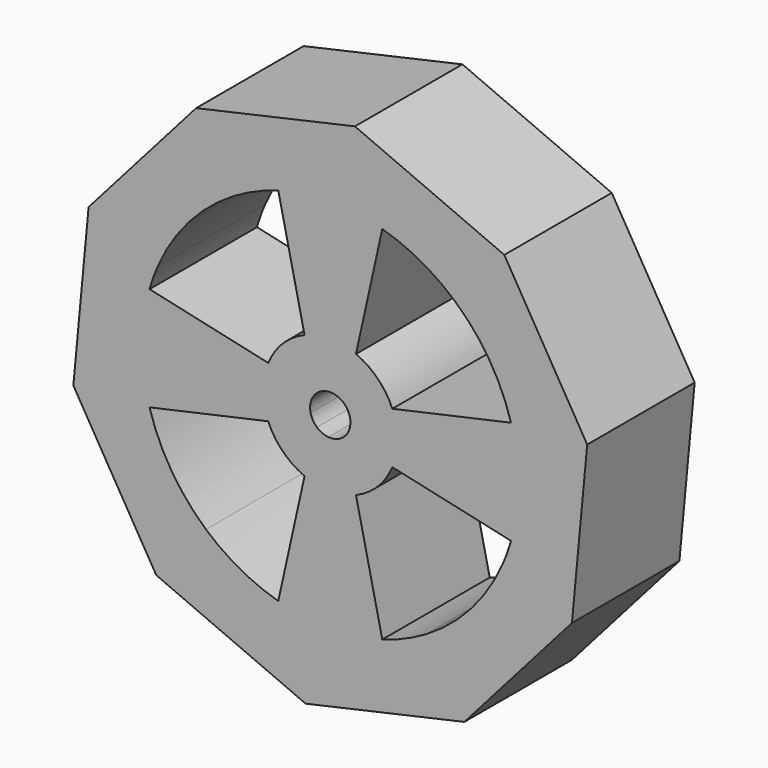
from build123d import *

# Parameters (mm, degrees)
F1_DEPTH = 25.4
F3_D     = 2.6
F3_DEPTH = 9.5
F3_TIP   = 0.7811188047


with BuildPart() as f1:
    # F0 (on Front) → F1 (new body)
    with BuildSketch(Plane.XZ):
        with BuildLine():
            ThreePointArc((4.860079591, -11.7332700629), (8.9802561211, -8.9802561211), (11.7332700629, -4.860079591))
            ThreePointArc((11.7332700629, -4.860079591), (12.4559730611, -2.4776470896), (12.7, 0))
            ThreePointArc((12.7, 0), (12.4559730611, 2.4776470896), (11.7332700629, 4.860079591))
            ThreePointArc((11.7332700629, 4.860079591), (8.9802561211, 8.9802561211), (4.860079591, 11.7332700629))
            ThreePointArc((4.860079591, 11.7332700629), (0, 12.7), (-4.860079591, 11.7332700629))
            ThreePointArc((-4.860079591, 11.7332700629), (-8.9802561211, 8.9802561211), (-11.7332700629, 4.860079591))
            ThreePointArc((-11.7332700629, 4.860079591), (-12.7, 0), (-11.7332700629, -4.860079591))
            ThreePointArc((-11.7332700629, -4.860079591), (-8.9802561211, -8.9802561211), (-4.860079591, -11.7332700629))
            ThreePointArc((-4.860079591, -11.7332700629), (0, -12.7), (4.860079591, -11.7332700629))
        make_face()
        with BuildLine():
            ThreePointArc((3.7179078086, 0.83262328), (3.7869069668, 0.4188503605), (3.81, 0))
            ThreePointArc((3.81, 0), (3.7309944269, -0.7718682441), (3.4972542854, -1.5117249959))
            ThreePointArc((3.4972542854, -1.5117249959), (2.8589377627, -2.518446916), (1.9407684924, -3.278645705))
            ThreePointArc((1.9407684924, -3.278645705), (0.83262328, -3.7179078086), (-0.3570249003, -3.7932351918))
            ThreePointArc((-0.3570249003, -3.7932351918), (-1.5117249959, -3.4972542854), (-2.518446916, -2.8589377627))
            ThreePointArc((-2.518446916, -2.8589377627), (-3.278645705, -1.9407684924), (-3.7179078086, -0.83262328))
            ThreePointArc((-3.7179078086, -0.83262328), (-3.7932351918, 0.3570249003), (-3.4972542854, 1.5117249959))
            ThreePointArc((-3.4972542854, 1.5117249959), (-2.8589377627, 2.518446916), (-1.9407684924, 3.278645705))
            ThreePointArc((-1.9407684924, 3.278645705), (-0.83262328, 3.7179078086), (0.3570249003, 3.7932351918))
            ThreePointArc((0.3570249003, 3.7932351918), (1.5117249959, 3.4972542854), (2.518446916, 2.8589377627))
            ThreePointArc((2.518446916, 2.8589377627), (3.278645705, 1.9407684924), (3.7179078086, 0.83262328))
        make_face(mode=Mode.SUBTRACT)
        with BuildLine():
            Line((4.860079591, 11.7332700629), (9.8348340353, 34.1729372384))
            ThreePointArc((9.8348340353, 34.1729372384), (6.6122234033, 34.9398354556), (3.3322324031, 35.4035284571))
            ThreePointArc((3.3322324031, 35.4035284571), (-3.3090097739, 35.4057065219), (-9.8348340353, 34.1729372384))
            Line((-9.8348340353, 34.1729372384), (-4.860079591, 11.7332700629))
            ThreePointArc((-4.860079591, 11.7332700629), (0, 12.7), (4.860079591, 11.7332700629))
        make_face()
        with BuildLine():
            ThreePointArc((34.1729372384, -9.8348340353), (35.2115268641, -4.9660825508), (35.56, 0))
            ThreePointArc((35.56, 0), (35.3444650238, 3.9092700317), (34.7004728807, 7.7711506133))
            ThreePointArc((34.7004728807, 7.7711506133), (34.4521603484, 8.8069431317), (34.1729372384, 9.8348340353))
            Line((34.1729372384, 9.8348340353), (11.7332700629, 4.860079591))
            ThreePointArc((11.7332700629, 4.860079591), (12.4559730611, 2.4776470896), (12.7, 0))
            ThreePointArc((12.7, 0), (12.4559730611, -2.4776470896), (11.7332700629, -4.860079591))
            Line((11.7332700629, -4.860079591), (34.1729372384, -9.8348340353))
        make_face()
        with BuildLine():
            Line((9.8348340353, -34.1729372384), (4.860079591, -11.7332700629))
            ThreePointArc((4.860079591, -11.7332700629), (0, -12.7), (-4.860079591, -11.7332700629))
            Line((-4.860079591, -11.7332700629), (-9.8348340353, -34.1729372384))
            ThreePointArc((-9.8348340353, -34.1729372384), (-6.6122234033, -34.9398354556), (-3.3322324031, -35.4035284571))
            ThreePointArc((-3.3322324031, -35.4035284571), (3.3090097739, -35.4057065219), (9.8348340353, -34.1729372384))
        make_face()
        with BuildLine():
            Line((-34.1729372384, -9.8348340353), (-11.7332700629, -4.860079591))
            ThreePointArc((-11.7332700629, -4.860079591), (-12.7, 0), (-11.7332700629, 4.860079591))
            Line((-11.7332700629, 4.860079591), (-34.1729372384, 9.8348340353))
            ThreePointArc((-34.1729372384, 9.8348340353), (-35.5440477326, 1.0650214928), (-34.7004728807, -7.7711506133))
            ThreePointArc((-34.7004728807, -7.7711506133), (-34.4521603484, -8.8069431317), (-34.1729372384, -9.8348340353))
        make_face()
        with BuildLine():
            Line((-32.6410399972, 14.1094332949), (-45.697455996, 19.7532066129))
            Line((-45.697455996, 19.7532066129), (-48.580662033, -10.8796108586))
            Line((-48.580662033, -10.8796108586), (-34.7004728807, -7.7711506133))
            ThreePointArc((-34.7004728807, -7.7711506133), (-35.5440477326, 1.0650214928), (-34.1729372384, 9.8348340353))
            ThreePointArc((-34.1729372384, 9.8348340353), (-33.475288471, 11.996610429), (-32.6410399972, 14.1094332949))
        make_face()
        with BuildLine():
            Line((-18.1138392628, 30.6006932464), (-25.359374968, 42.840970545))
            Line((-25.359374968, 42.840970545), (-45.697455996, 19.7532066129))
            Line((-45.697455996, 19.7532066129), (-32.6410399972, 14.1094332949))
            ThreePointArc((-32.6410399972, 14.1094332949), (-26.6834191188, 23.5055045495), (-18.1138392628, 30.6006932464))
        make_face()
        with BuildLine():
            Line((3.3322324031, 35.4035284571), (4.6651253644, 49.5649398399))
            Line((4.6651253644, 49.5649398399), (-25.359374968, 42.840970545))
            Line((-25.359374968, 42.840970545), (-18.1138392628, 30.6006932464))
            ThreePointArc((-18.1138392628, 30.6006932464), (-14.0880203211, 32.650287647), (-9.8348340353, 34.1729372384))
            ThreePointArc((-9.8348340353, 34.1729372384), (-3.3090097739, 35.4057065219), (3.3322324031, 35.4035284571))
        make_face()
        with BuildLine():
            ThreePointArc((9.8348340353, 34.1729372384), (17.0856010914, 31.1864687861), (23.5055045495, 26.6834191188))
            Line((23.5055045495, 26.6834191188), (32.9077063694, 37.3567867664))
            Line((32.9077063694, 37.3567867664), (4.6651253644, 49.5649398399))
            Line((4.6651253644, 49.5649398399), (3.3322324031, 35.4035284571))
            ThreePointArc((3.3322324031, 35.4035284571), (6.6122234033, 34.9398354556), (9.8348340353, 34.1729372384))
        make_face()
        with BuildLine():
            ThreePointArc((34.1729372384, 9.8348340353), (34.4521603484, 8.8069431317), (34.7004728807, 7.7711506133))
            Line((34.7004728807, 7.7711506133), (48.580662033, 10.8796108586))
            Line((48.580662033, 10.8796108586), (32.9077063694, 37.3567867664))
            Line((32.9077063694, 37.3567867664), (23.5055045495, 26.6834191188))
            ThreePointArc((23.5055045495, 26.6834191188), (30.0444565036, 19.0222036946), (34.1729372384, 9.8348340353))
        make_face()
        with BuildLine():
            ThreePointArc((34.7004728807, 7.7711506133), (35.3444650238, 3.9092700317), (35.56, 0))
            ThreePointArc((35.56, 0), (35.2115268641, -4.9660825508), (34.1729372384, -9.8348340353))
            ThreePointArc((34.1729372384, -9.8348340353), (33.475288471, -11.996610429), (32.6410399972, -14.1094332949))
            Line((32.6410399972, -14.1094332949), (45.697455996, -19.7532066129))
            Line((45.697455996, -19.7532066129), (48.580662033, 10.8796108586))
            Line((48.580662033, 10.8796108586), (34.7004728807, 7.7711506133))
        make_face()
        with BuildLine():
            Line((45.697455996, -19.7532066129), (32.6410399972, -14.1094332949))
            ThreePointArc((32.6410399972, -14.1094332949), (26.6834191188, -23.5055045495), (18.1138392628, -30.6006932464))
            Line((18.1138392628, -30.6006932464), (25.359374968, -42.840970545))
            Line((25.359374968, -42.840970545), (45.697455996, -19.7532066129))
        make_face()
        with BuildLine():
            Line((25.359374968, -42.840970545), (18.1138392628, -30.6006932464))
            ThreePointArc((18.1138392628, -30.6006932464), (14.0880203211, -32.650287647), (9.8348340353, -34.1729372384))
            ThreePointArc((9.8348340353, -34.1729372384), (3.3090097739, -35.4057065219), (-3.3322324031, -35.4035284571))
            Line((-3.3322324031, -35.4035284571), (-4.6651253644, -49.5649398399))
            Line((-4.6651253644, -49.5649398399), (25.359374968, -42.840970545))
        make_face()
        with BuildLine():
            Line((-32.9077063694, -37.3567867664), (-4.6651253644, -49.5649398399))
            Line((-4.6651253644, -49.5649398399), (-3.3322324031, -35.4035284571))
            ThreePointArc((-3.3322324031, -35.4035284571), (-6.6122234033, -34.9398354556), (-9.8348340353, -34.1729372384))
            ThreePointArc((-9.8348340353, -34.1729372384), (-17.0856010914, -31.1864687861), (-23.5055045495, -26.6834191188))
            Line((-23.5055045495, -26.6834191188), (-32.9077063694, -37.3567867664))
        make_face()
        with BuildLine():
            Line((-48.580662033, -10.8796108586), (-32.9077063694, -37.3567867664))
            Line((-32.9077063694, -37.3567867664), (-23.5055045495, -26.6834191188))
            ThreePointArc((-23.5055045495, -26.6834191188), (-30.0444565036, -19.0222036946), (-34.1729372384, -9.8348340353))
            ThreePointArc((-34.1729372384, -9.8348340353), (-34.4521603484, -8.8069431317), (-34.7004728807, -7.7711506133))
            Line((-34.7004728807, -7.7711506133), (-48.580662033, -10.8796108586))
        make_face()
    extrude(amount=F1_DEPTH)

    # F3
    with Locations(Plane(origin=(10.3471248018, 0, -46.2029551924), x_dir=(0.9758288212, 0, 0.218536294), z_dir=(0.218536294, 0, -0.9758288212))):
        with Locations((-2.3135205983, 14.6098749805), (2.3135205983, 14.6098749805), (2.3135205983, 10.7901250195), (-2.3135205983, 10.7901250195)):
            Hole(F3_D / 2, depth=F3_DEPTH)
            with Locations((0, 0, -(F3_DEPTH + F3_TIP / 2))):  # 118° drill point
                Cone(0, F3_D / 2, F3_TIP, mode=Mode.SUBTRACT)


solid = f1.part
